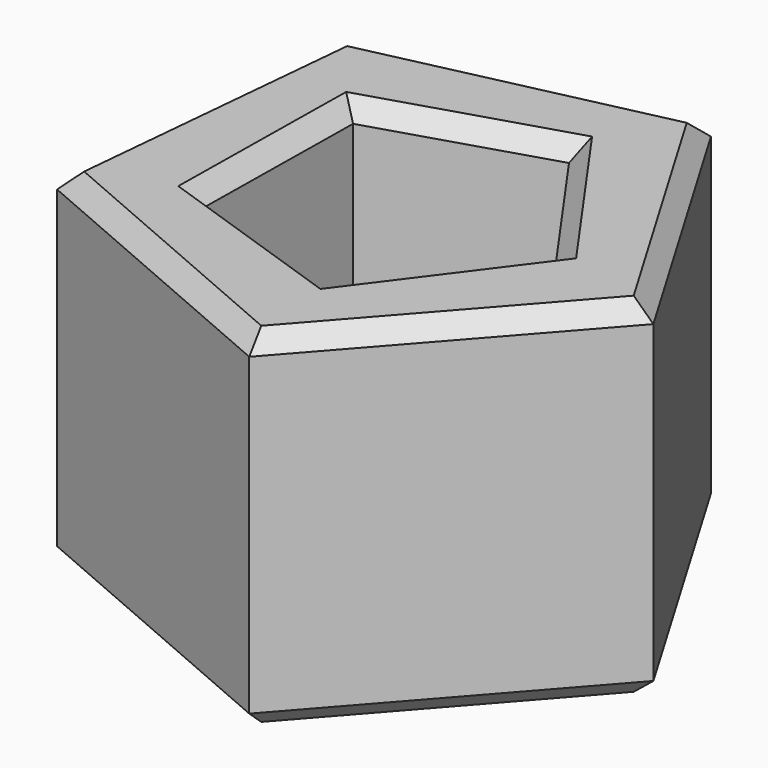
from build123d import *

# Parameters (mm, degrees)
F1_DEPTH = 102.362
F2_SIZE  = 5.08


with BuildPart() as f1:
    # F0 (on Top) → F1 (new body)
    with BuildSketch(Plane.XY):
        Polygon((17.439397, -78.062701), (79.63111, -7.536849), (31.775335, 73.404672), (-59.992873, 52.903431), (-68.85297, -40.708554), align=None)
        Polygon((14.577651, 42.818111), (45.227185, -0.632646), (13.374287, -43.209108), (-36.961421, -26.072052), (-36.217702, 27.095694), align=None, mode=Mode.SUBTRACT)
    extrude(amount=F1_DEPTH)

    # F2
    f2_edges = [f1.edges().sort_by_distance(p)[0] for p in [
        (48.535254, -42.799775, 0),
        (55.703223, 32.933912, 0),
        (-14.108769, 63.154051, 0),
        (-64.422921, 6.097439, 0),
        (-25.706786, -59.385627, 0),
        (-10.820026, 34.956902, 0),
        (29.902418, 21.092733, 0),
        (29.300736, -21.920877, 0),
        (-11.793567, -34.64058, 0),
        (-36.589562, 0.511821, 0),
        (48.535254, -42.799775, 102.362),
        (55.703223, 32.933912, 102.362),
        (-14.108769, 63.154051, 102.362),
        (-64.422921, 6.097439, 102.362),
        (-25.706786, -59.385627, 102.362),
        (-10.820026, 34.956902, 102.362),
        (29.902418, 21.092733, 102.362),
        (29.300736, -21.920877, 102.362),
        (-11.793567, -34.64058, 102.362),
        (-36.589562, 0.511821, 102.362),
    ]]
    chamfer(f2_edges, length=F2_SIZE)


solid = f1.part
